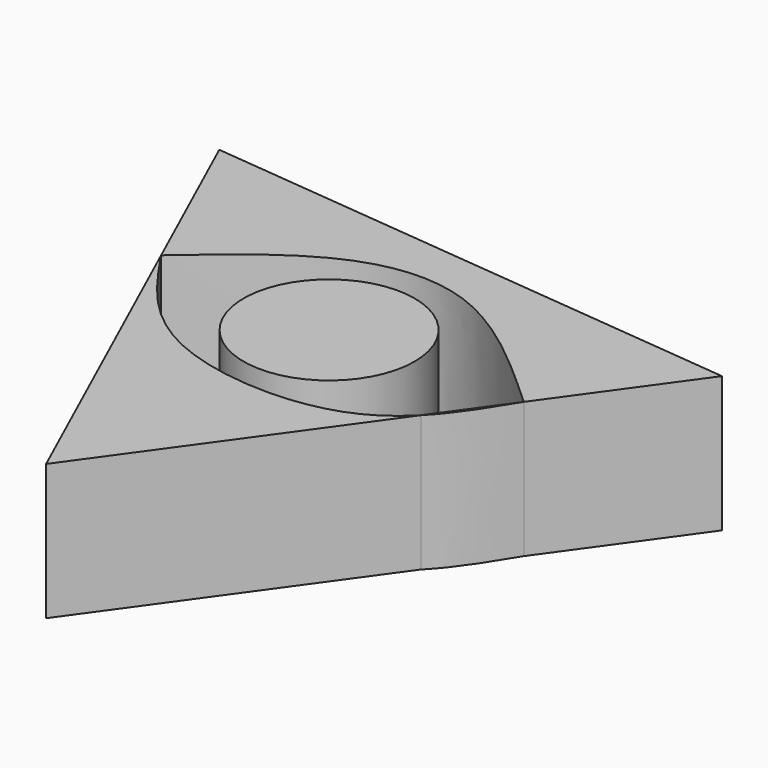
from build123d import *

# Parameters (mm, degrees)
F1_DEPTH = 25.4
F2_R     = 15.9930438788
F3_DEPTH = 25.4


with BuildPart() as f1:
    # F0 (on Top) → F1 (new body)
    with BuildSketch(Plane.XY):
        with BuildLine():
            Line((36.4083144305, 0), (53.9139731383, 24.4330322388))
            Line((53.9139731383, 24.4330322388), (-48.1166131794, 34.4743542373))
            Line((-48.1166131794, 34.4743542373), (-33.9024768455, 3.109415289))
            add(Edge.make_bspline(
                [(-33.9024768455, 3.109415289), (-26.5750770472, 9.4648362976), (-12.8675760269, 21.3540387917), (11.1528533904, 23.0372202248), (27.3496098458, 8.2630593098), (36.4083144305, 0)],
                knots=[0, 0, 0, 0, 0.336052796, 0.6286601211, 1, 1, 1, 1], degree=3))
        make_face()
    extrude(amount=F1_DEPTH)


with BuildPart() as f1b:
    # F0 (on Top) → F1, piece 2 (new body)
    with BuildSketch(Plane.XY):
        with BuildLine():
            Line((-5.7973599589, -58.9073864761), (27.3224899861, -12.681284679))
            add(Edge.make_bspline(
                [(27.3224899861, -12.681284679), (25.0484021441, -14.9891045916), (14.5874263856, -22.8347435286), (-17.8496784828, -20.7680233971), (-28.7393422163, -4.5703940346), (-33.9024768455, 3.109415289)],
                knots=[0.1907237868, 0.1907237868, 0.1907237868, 0.1907237868, 0.3113645625, 0.6734961188, 1, 1, 1, 1], degree=3))
            Line((-33.9024768455, 3.109415289), (-5.7973599589, -58.9073864761))
        make_face()
    extrude(amount=F1_DEPTH)


with BuildPart() as f1c:
    # F0 (on Top) → F1, piece 3 (new body)
    with BuildSketch(Plane.XY):
        with BuildLine():
            add(Edge.make_bspline(
                [(36.4083144305, 0), (33.6629811881, -4.5163994552), (30.9176479457, -9.0327989105), (27.3224899861, -12.681284679)],
                knots=[0, 0, 0, 0, 0.1907237868, 0.1907237868, 0.1907237868, 0.1907237868], degree=3))
            Line((36.4083144305, 0), (27.3224899861, -12.681284679))
        make_face()
    extrude(amount=F1_DEPTH)


with BuildPart() as f3:
    # F2 (on Top) → F3 (new body)
    with BuildSketch(Plane.XY):
        Circle(F2_R)
    extrude(amount=F3_DEPTH)


solid = Compound([f1.part, f1b.part, f1c.part, f3.part])
